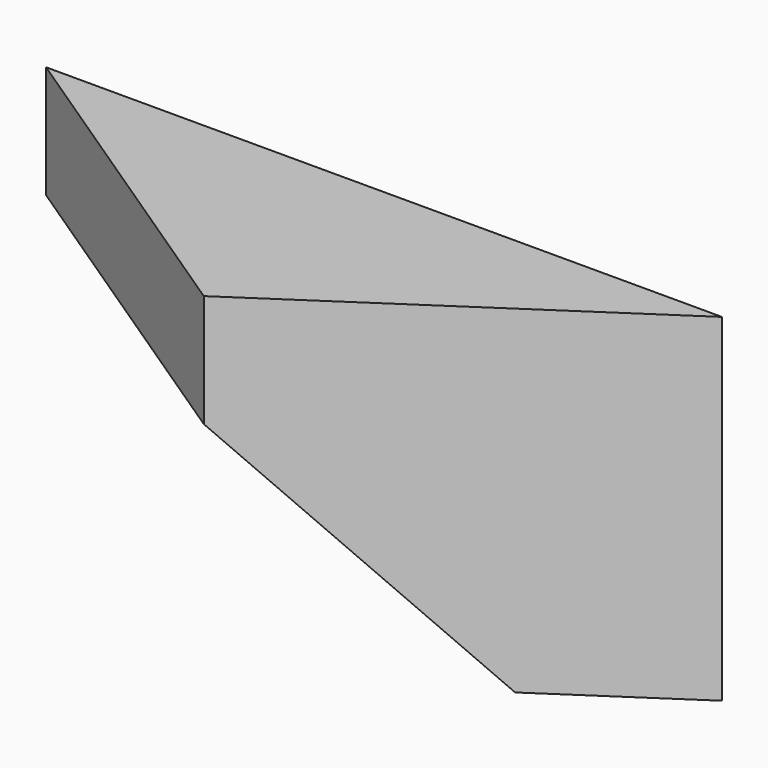
from build123d import *

# Parameters (mm, degrees)
F1_DEPTH = 75
F2_SIZE  = 100


with BuildPart() as f1:
    # F0 (on Top) → F1 (new body, symmetric)
    with BuildSketch(Plane.XY):
        Polygon((150, 100), (0, 100), (-150, 100), (0, 0), align=None)
    extrude(amount=F1_DEPTH, both=True)

    # F2
    f2_edges = [f1.edges().sort_by_distance(p)[0] for p in [
        (-75, 50, -75),
    ]]
    chamfer(f2_edges, length=F2_SIZE)


solid = f1.part
